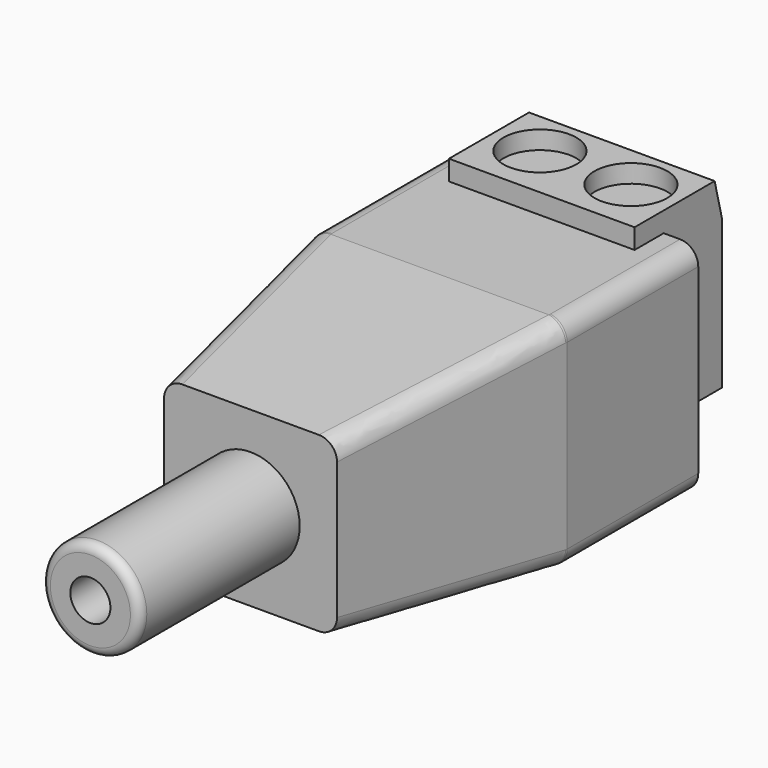
from build123d import *

# Parameters (mm, degrees)
SKETCH_W          = 14
SKETCH_H          = 12
PAD_DEPTH         = 9
SKETCH002_W       = 14
SKETCH002_H       = 12
SKETCH001_W       = 9.5
SKETCH001_H       = 9.5
FILLET_R          = 1
SKETCH003_R       = 2.7
PAD001_DEPTH      = 11
FILLET001_R       = 0.5
SKETCH004_R       = 1.1
POCKET_DEPTH      = 11
SKETCH005_W       = 10.2
SKETCH005_H       = 10.2
PAD002_DEPTH      = 4
PAD002_DEPTH_BACK = 2
SKETCH006_R       = 2
POCKET001_DEPTH   = 1
CHAMFER_SIZE2     = 2
CHAMFER_SIZE      = 0.5
SKETCH007_W       = 4.3
SKETCH007_H       = 5
POCKET002_DEPTH   = 5


with BuildPart() as shell:
    # Sketch → Pad (new body)
    with BuildSketch(Plane.XZ):
        Rectangle(SKETCH_W, SKETCH_H)
    extrude(amount=-PAD_DEPTH)

    # Sketch002 (on Face5 of Pad) → AdditiveLoft section 0
    with BuildSketch(Plane.XZ):
        Rectangle(SKETCH002_W, SKETCH002_H)
    # Sketch001 (on DatumPlane) → AdditiveLoft section 1
    with BuildSketch(Plane.XZ.offset(13)):
        Rectangle(SKETCH001_W, SKETCH001_H)
    loft()

    # Fillet
    fillet_edges = [shell.edges().sort_by_distance(p)[0] for p in [
        (-7, 4.5, -6),
        (-5.875, -6.5, -5.375),
        (-5.875, -6.5, 5.375),
        (-7, 4.5, 6),
        (7, 4.5, -6),
        (5.875, -6.5, -5.375),
        (7, 4.5, 6),
        (5.875, -6.5, 5.375),
    ]]
    fillet(fillet_edges, radius=FILLET_R)


with BuildPart() as powerouter:
    # Sketch003 (on Face1 of CopyFillet) → Pad001 (new body)
    with BuildSketch(Plane.XZ.offset(13)):
        Circle(SKETCH003_R)
    extrude(amount=PAD001_DEPTH)

    # Fillet001
    fillet001_edges = [powerouter.edges().sort_by_distance(p)[0] for p in [
        (-2.7, -24, 0),
    ]]
    fillet(fillet001_edges, radius=FILLET001_R)

    # Sketch004 (on Face4 of Fillet001) → Pocket (cut)
    with BuildSketch(Plane.XZ.offset(24)):
        Circle(SKETCH004_R)
    extrude(amount=-POCKET_DEPTH, mode=Mode.SUBTRACT)


with BuildPart() as powerheader:
    # Sketch005 (on Face1 of CopyFillet001) → Pad002 (new body, two sides)
    with BuildSketch(Plane(origin=(0, 9, 0), x_dir=(-1, 0, 0), z_dir=(0, 1, 0))) as pad002_sk:
        with Locations((0, 2)):
            Rectangle(SKETCH005_W, SKETCH005_H)
    extrude(amount=PAD002_DEPTH)
    extrude(pad002_sk.sketch, amount=-PAD002_DEPTH_BACK)

    # Sketch006 (on Face1 of Pad002) → Pocket001 (cut)
    with BuildSketch(Plane(origin=(0, 9, 7.1), x_dir=(1, 0, 0), z_dir=(0, 0, 1))):
        with Locations((-2.5, 1)):
            Circle(SKETCH006_R)
        with Locations((2.5, 1)):
            Circle(SKETCH006_R)
    extrude(amount=-POCKET001_DEPTH, mode=Mode.SUBTRACT)

    # Chamfer
    chamfer_edges = [powerheader.edges().sort_by_distance(p)[0] for p in [
        (0, 13, 7.1),
    ]]
    chamfer_side = powerheader.faces().sort_by_distance((0, 10, 7.1))[0]
    chamfer(chamfer_edges, length=CHAMFER_SIZE, length2=CHAMFER_SIZE2, reference=chamfer_side)

    # Sketch007 (on Face8 of Chamfer) → Pocket002 (cut)
    with BuildSketch(Plane(origin=(0, 13, 0), x_dir=(-1, 0, 0), z_dir=(0, 1, 0))):
        with Locations((-2.65, 0)):
            Rectangle(SKETCH007_W, SKETCH007_H)
        with Locations((2.65, 0)):
            Rectangle(SKETCH007_W, SKETCH007_H)
    extrude(amount=-POCKET002_DEPTH, mode=Mode.SUBTRACT)


solid = Compound([shell.part, powerouter.part, powerheader.part])
